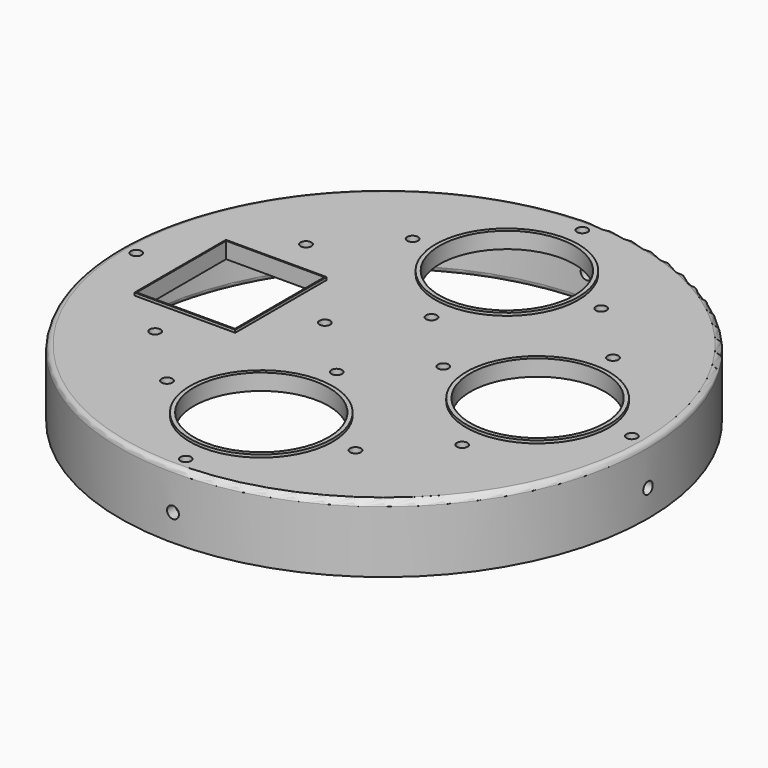
from build123d import *

# Parameters (mm, degrees)
CYLINDER_R        = 2.2
CYLINDER_DEPTH    = 300
CYLINDER092_R     = 2.2
CYLINDER092_DEPTH = 300
TUBE_R            = 98
TUBE_R_2          = 94
TUBE_DEPTH        = 20
FILLET001_R       = 2
SKETCH_R          = 98
SKETCH_R_2        = 2
SKETCH_R_3        = 25
SKETCH_W          = 36.5
SKETCH_H          = 41.5
EXTRUDE_DEPTH     = 5
SKETCH001_R       = 26.5
SKETCH001_R_2     = 25
SKETCH001_W       = 37.4
SKETCH001_H       = 42.4
SKETCH001_W_2     = 36.5
SKETCH001_H_2     = 41.5
EXTRUDE001_DEPTH  = 1
FILLET_R          = 2


with BuildPart() as cylinder:
    # Cylinder → Cylinder (new body)
    with BuildSketch(Plane(origin=(0, 0, 90), x_dir=(1, 0, 0), z_dir=(0, -1, 0))):
        Circle(CYLINDER_R)
    extrude(amount=CYLINDER_DEPTH)


with BuildPart() as m4cuts:
    # Cylinder092 → Cylinder092 (new body)
    with BuildSketch(Plane(origin=(-150, -150, 90), x_dir=(0, 1, 0), z_dir=(1, 0, 0))):
        Circle(CYLINDER092_R)
    extrude(amount=CYLINDER092_DEPTH)

    # Fusion047: union Cylinder
    add(cylinder.part)


with BuildPart() as tube:
    # Tube → Tube (new body)
    with BuildSketch(Plane(origin=(0, -150, 80), x_dir=(1, 0, 0), z_dir=(0, 0, 1))):
        Circle(TUBE_R)
        Circle(TUBE_R_2, mode=Mode.SUBTRACT)
    extrude(amount=TUBE_DEPTH)

    # Fillet001
    fillet001_edges = [tube.edges().sort_by_distance(p)[0] for p in [
        (-94, -150, 80),
    ]]
    fillet(fillet001_edges, radius=FILLET001_R)


with BuildPart() as top001:
    # Sketch → Extrude (new body)
    with BuildSketch(Plane.XY):
        with Locations((0, -150)):
            Circle(SKETCH_R)
        with Locations((-92, -150)):
            Circle(SKETCH_R_2, mode=Mode.SUBTRACT)
        with Locations((-57, -115)):
            Circle(SKETCH_R_2, mode=Mode.SUBTRACT)
        with Locations((-22, -150)):
            Circle(SKETCH_R_2, mode=Mode.SUBTRACT)
        with Locations((-57, -185)):
            Circle(SKETCH_R_2, mode=Mode.SUBTRACT)
        with Locations((0, -172)):
            Circle(SKETCH_R_2, mode=Mode.SUBTRACT)
        with Locations((0, -242)):
            Circle(SKETCH_R_2, mode=Mode.SUBTRACT)
        with Locations((-35, -207)):
            Circle(SKETCH_R_2, mode=Mode.SUBTRACT)
        with Locations((35, -207)):
            Circle(SKETCH_R_2, mode=Mode.SUBTRACT)
        with Locations((57, -185)):
            Circle(SKETCH_R_2, mode=Mode.SUBTRACT)
        with Locations((22, -150)):
            Circle(SKETCH_R_2, mode=Mode.SUBTRACT)
        with Locations((57, -115)):
            Circle(SKETCH_R_2, mode=Mode.SUBTRACT)
        with Locations((92, -150)):
            Circle(SKETCH_R_2, mode=Mode.SUBTRACT)
        with Locations((0, -58)):
            Circle(SKETCH_R_2, mode=Mode.SUBTRACT)
        with Locations((0, -207)):
            Circle(SKETCH_R_3, mode=Mode.SUBTRACT)
        with Locations((57, -150)):
            Circle(SKETCH_R_3, mode=Mode.SUBTRACT)
        with Locations((0, -93)):
            Circle(SKETCH_R_3, mode=Mode.SUBTRACT)
        with Locations((-35, -93)):
            Circle(SKETCH_R_2, mode=Mode.SUBTRACT)
        with Locations((35, -93)):
            Circle(SKETCH_R_2, mode=Mode.SUBTRACT)
        with Locations((0, -128)):
            Circle(SKETCH_R_2, mode=Mode.SUBTRACT)
        with Locations((-57, -150)):
            Rectangle(SKETCH_W, SKETCH_H, mode=Mode.SUBTRACT)
    extrude(amount=EXTRUDE_DEPTH)


with BuildPart() as top001_1:
    # Extrude placement: moved
    add(top001.part.moved(Location((0, 0, 100))))


with BuildPart() as top005:
    # Sketch001 → Extrude001 (new body)
    with BuildSketch(Plane.XY.offset(105)):
        with Locations((0, -93)):
            Circle(SKETCH001_R)
        with Locations((0, -93)):
            Circle(SKETCH001_R_2, mode=Mode.SUBTRACT)
        with Locations((57, -150)):
            Circle(SKETCH001_R)
        with Locations((57, -150)):
            Circle(SKETCH001_R_2, mode=Mode.SUBTRACT)
        with Locations((0, -207)):
            Circle(SKETCH001_R)
        with Locations((0, -207)):
            Circle(SKETCH001_R_2, mode=Mode.SUBTRACT)
        with Locations((-57, -150)):
            Rectangle(SKETCH001_W, SKETCH001_H)
        with Locations((-57, -150)):
            Rectangle(SKETCH001_W_2, SKETCH001_H_2, mode=Mode.SUBTRACT)
    extrude(amount=EXTRUDE001_DEPTH)

    # Fusion046: union top001
    add(top001_1.part)

    # Fillet
    fillet_edges = [top005.edges().sort_by_distance(p)[0] for p in [
        (-98, -150, 105),
    ]]
    fillet(fillet_edges, radius=FILLET_R)

    # Fusion048: union tube
    add(tube.part)

    # Cut: cut m4Cuts
    add(m4cuts.part, mode=Mode.SUBTRACT)


solid = top005.part
